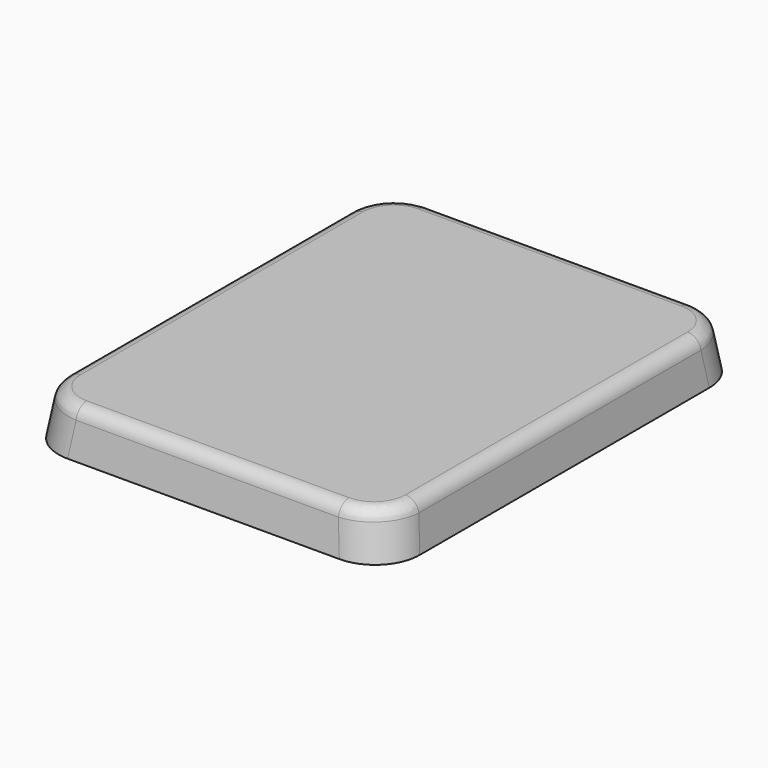
from build123d import *

# Parameters (mm, degrees)
F0_W     = 80
F0_H     = 100
F1_DEPTH = 10
F1_TAPER = 8
F2_R     = 10
F3_R     = 3


with BuildPart() as f1:
    # F0 (on Top) → F1 (new body)
    with BuildSketch(Plane.XY):
        Rectangle(F0_W, F0_H)
    extrude(amount=F1_DEPTH, taper=F1_TAPER)

    # F2
    f2_edges = [f1.edges().sort_by_distance(p)[0] for p in [
        (-39.297296, -49.297296, 5),
        (39.297296, -49.297296, 5),
        (39.297296, 49.297296, 5),
        (-39.297296, 49.297296, 5),
    ]]
    fillet(f2_edges, radius=F2_R)

    # F3
    f3_edges = [f1.edges().sort_by_distance(p)[0] for p in [
        (-38.594592, 0, 10),
    ]]
    fillet(f3_edges, radius=F3_R)


solid = f1.part
